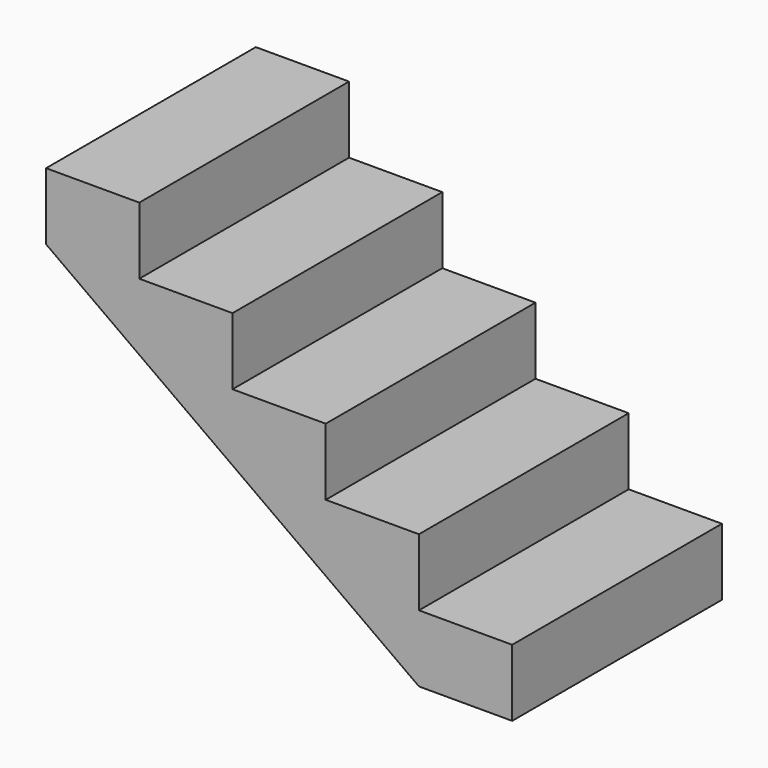
from build123d import *

# Parameters (mm, degrees)
F1_DEPTH = 450


with BuildPart() as f1:
    # F0 (on Front) → F1 (new body, symmetric)
    with BuildSketch(Plane.XZ):
        Polygon((-320, 0), (0, 0), (0, 230), (-320, 230), (-320, 460), (-640, 460), (-640, 690), (-960, 690), (-960, 920), (-1280, 920), (-1280, 1150), (-1600, 1150), (-1600, 920), align=None)
    extrude(amount=F1_DEPTH, both=True)


solid = f1.part
